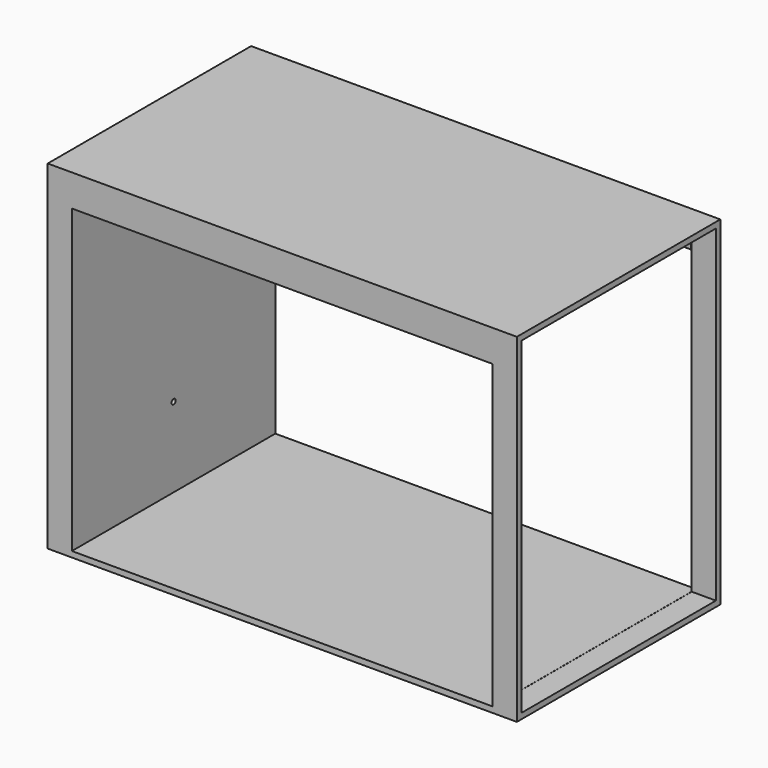
from build123d import *

# Parameters (mm, degrees)
F0_W      = 4705
F0_H      = 3400
F0_W_2    = 4220
F0_H_2    = 3285
F1_DEPTH  = 2550
F2_W      = 65
F2_H      = 261
F3_DEPTH  = 4220
F4_W      = 2440
F4_H      = 3285
F5_DEPTH  = 242.5
F6_R      = 25
F7_DEPTH  = 242.501
F9_W      = 242.5
F9_H      = 2440
F10_DEPTH = 1


with BuildPart() as f1:
    # F0 (on Front) → F1 (new body)
    with BuildSketch(Plane.XZ):
        Rectangle(F0_W, F0_H)
        Rectangle(F0_W_2, F0_H_2, mode=Mode.SUBTRACT)
    extrude(amount=F1_DEPTH)

    # F2 (on face) → F3 (join, through all)
    with BuildSketch(Plane.YZ.offset(-2110)):
        with Locations((-2517.5, 1512)):
            Rectangle(F2_W, F2_H)
        with Locations((-32.5, 1512)):
            Rectangle(F2_W, F2_H)
    extrude(amount=F3_DEPTH)

    # F4 (on face) → F5 (cut, through all)
    with BuildSketch(Plane(origin=(2110, 0, 0), x_dir=(0, -1, 0), z_dir=(-1, 0, 0))):
        with Locations((1275, 0)):
            Rectangle(F4_W, F4_H)
    extrude(amount=-F5_DEPTH, mode=Mode.SUBTRACT)

    # F6 (on face) → F7 (cut, through all)
    with BuildSketch(Plane.YZ.offset(-2110)):
        with Locations((-1275, -842.5)):
            Circle(F6_R)
    extrude(amount=-F7_DEPTH, mode=Mode.SUBTRACT)

    # F9 (on face) → F10 (cut)
    with BuildSketch(Plane.XY.offset(-1642.5)):
        with Locations((2231.25, -1275)):
            Rectangle(F9_W, F9_H)
    extrude(amount=-F10_DEPTH, mode=Mode.SUBTRACT)


solid = f1.part
